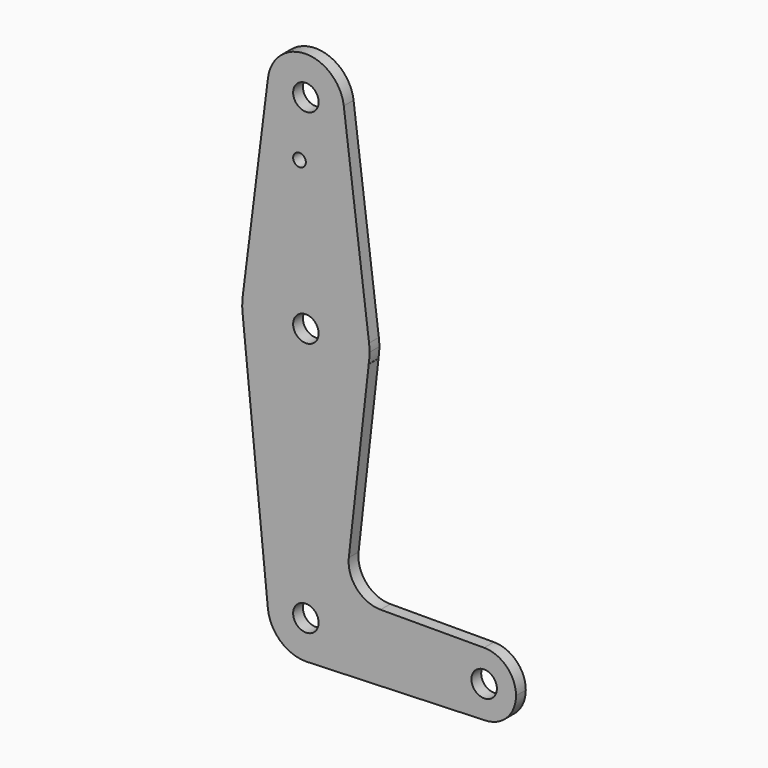
from build123d import *

# Parameters (mm, degrees)
F0_R     = 3.175
F0_R_2   = 1.5875
F1_DEPTH = 3.048


with BuildPart() as f1:
    # F0 (on Front) → F1 (new body)
    with BuildSketch(Plane.XZ):
        with BuildLine():
            ThreePointArc((-9.4502929642, 115.490625), (-0.596483242, 104.7936951058), (9.525, 114.3))
            ThreePointArc((9.525, 114.3), (9.5063048942, 114.896483242), (9.4502929642, 115.490625))
            ThreePointArc((9.4502929642, 115.490625), (0, 123.825), (-9.4502929642, 115.490625))
        make_face()
        with Locations((0, 114.3)):
            Circle(F0_R, mode=Mode.SUBTRACT)
        with BuildLine():
            ThreePointArc((9.4502929642, 115.490625), (9.5063048942, 114.896483242), (9.525, 114.3))
            ThreePointArc((9.525, 114.3), (-0.596483242, 104.7936951058), (-9.4502929642, 115.490625))
            Line((-9.4502929642, 115.490625), (-15.7504882737, 65.484375))
            ThreePointArc((-15.7504882737, 65.484375), (0, 79.375), (15.7504882737, 65.484375))
            Line((15.7504882737, 65.484375), (9.4502929642, 115.490625))
        make_face()
        with Locations((-1.5875, 100.0252)):
            Circle(F0_R_2, mode=Mode.SUBTRACT)
        with BuildLine():
            ThreePointArc((15.875, 63.5), (15.8438414904, 64.4941387366), (15.7504882737, 65.484375))
            ThreePointArc((15.7504882737, 65.484375), (0, 79.375), (-15.7504882737, 65.484375))
            ThreePointArc((-15.7504882737, 65.484375), (-15.8737438155, 63.6997054867), (-15.7954255641, 61.9125))
            ThreePointArc((-15.7954255641, 61.9125), (-0.5460999834, 47.6343956999), (15.6488868625, 60.8301751059))
            ThreePointArc((15.6488868625, 60.8301751059), (15.8183707116, 62.1603086068), (15.875, 63.5))
        make_face()
        with Locations((0, 63.5)):
            Circle(F0_R, mode=Mode.SUBTRACT)
        with BuildLine():
            ThreePointArc((15.6488868625, 60.8301751059), (-0.5460999834, 47.6343956999), (-15.7954255641, 61.9125))
            Line((-15.7954255641, 61.9125), (-9.4772553384, -0.9525))
            ThreePointArc((-9.4772553384, -0.9525), (-0.4768479324, 9.5130563464), (9.525, 0))
            ThreePointArc((9.525, 0), (6.9705567315, -6.4912990883), (0.6773435479, -9.500885786))
            Line((0.6773435479, -9.500885786), (44.7324052746, -7.9324746146))
            ThreePointArc((44.7324052746, -7.9324746146), (36.5138653041, -0.1472152776), (44.4380174553, 7.9374909555))
            Line((44.4380174553, 7.9374909555), (18.6141578625, 7.8985069047))
            ThreePointArc((18.6141578625, 7.8985069047), (12.6778735562, 10.5469475838), (10.7020389241, 16.7396680604))
            Line((10.7020389241, 16.7396680604), (15.6742090531, 60.8272550711))
            Line((15.6742090531, 60.8272550711), (15.6488868625, 60.8301751059))
        make_face()
        with BuildLine():
            ThreePointArc((9.525, 0), (-0.4768479324, 9.5130563464), (-9.4772553384, -0.9525))
            ThreePointArc((-9.4772553384, -0.9525), (-6.3895642457, -7.063929059), (0, -9.525))
            Line((0, -9.525), (0.6773435479, -9.500885786))
            ThreePointArc((0.6773435479, -9.500885786), (6.9705567315, -6.4912990883), (9.525, 0))
        make_face()
        Circle(F0_R, mode=Mode.SUBTRACT)
        with BuildLine():
            Line((0.6773435479, -9.500885786), (0, -9.525))
            ThreePointArc((0, -9.525), (0.3388863295, -9.5189695375), (0.6773435479, -9.500885786))
        make_face()
        with BuildLine():
            ThreePointArc((44.4380174553, 7.9374909555), (36.5138653041, -0.1472152776), (44.7324052746, -7.9324746146))
            ThreePointArc((44.7324052746, -7.9324746146), (50.1616327839, -5.5119104847), (52.3875, 0))
            ThreePointArc((52.3875, 0), (50.0584921342, 5.6168249243), (44.4382156584, 7.9374912522))
            ThreePointArc((44.4382156584, 7.9374912522), (44.4381165569, 7.9374911045), (44.4380174553, 7.9374909555))
        make_face()
        with Locations((44.45, 0)):
            Circle(F0_R, mode=Mode.SUBTRACT)
    extrude(amount=F1_DEPTH)


solid = f1.part
